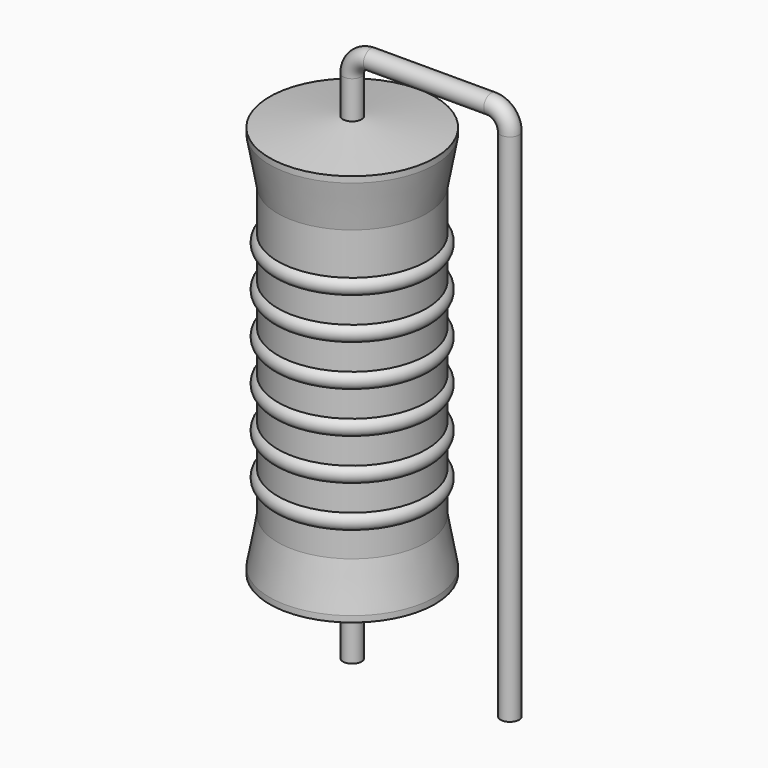
from build123d import *

# Parameters (mm, degrees)
SKETCH_R = 0.45


with BuildPart() as sweep_body:
    # Sweep: sweep along a path in Sketch001
    with BuildLine(Plane.XZ) as sweep_path:
        Line((0, -3), (0, 21.9))
        ThreePointArc((0, 21.9), (0.263601, 22.536393), (0.899991, 22.8))
        Line((0.899991, 22.8), (6.72, 22.8))
        ThreePointArc((6.72, 22.8), (7.356396, 22.536396), (7.62, 21.9))
        Line((7.62, 21.9), (7.62, -3))
    # Sketch → Sweep (sweep)
    with BuildSketch(Plane.XY.offset(-2)):
        Circle(SKETCH_R)
    sweep(path=sweep_path.line)


with BuildPart() as revolution:
    # Sketch002 → Revolution (revolve)
    with BuildSketch(Plane.XZ):
        Polygon((0, 0.1), (0, 20.1), (0.3375, 20.1), (4, 19.6), (4, 19.3075), (3.6, 17.1), (3.6, 3.1), (4, 0.8925), (4, 0.6), (0.3375, 0.1), align=None)
    revolve(axis=Axis((0, 0, 0), (0, 0, 1)))


with BuildPart() as revolution001:
    # Sketch003 → Revolution001 (revolve)
    with BuildSketch(Plane.XZ):
        with BuildLine():
            Line((3.2, 16.3), (3.2, 3.1))
            Line((3.2, 3.1), (3.44, 3.1))
            Line((3.44, 3.1), (3.44, 4.3))
            ThreePointArc((3.44, 4.3), (3.84, 4.7), (3.44, 5.1))
            Line((3.44, 5.1), (3.44, 6.3))
            ThreePointArc((3.44, 6.3), (3.84, 6.7), (3.44, 7.1))
            Line((3.44, 7.1), (3.44, 8.3))
            ThreePointArc((3.44, 8.3), (3.84, 8.7), (3.44, 9.1))
            Line((3.44, 9.1), (3.44, 10.3))
            ThreePointArc((3.44, 10.3), (3.84, 10.7), (3.44, 11.1))
            Line((3.44, 11.1), (3.44, 12.3))
            ThreePointArc((3.44, 12.3), (3.84, 12.7), (3.44, 13.1))
            Line((3.44, 13.1), (3.44, 14.3))
            ThreePointArc((3.44, 14.3), (3.84, 14.7), (3.44, 15.1))
            Line((3.44, 16.3), (3.44, 15.1))
            Line((3.2, 16.3), (3.44, 16.3))
        make_face()
    revolve(axis=Axis((0, 0, 0), (0, 0, 1)))


solid = Compound([sweep_body.part, revolution.part, revolution001.part])
